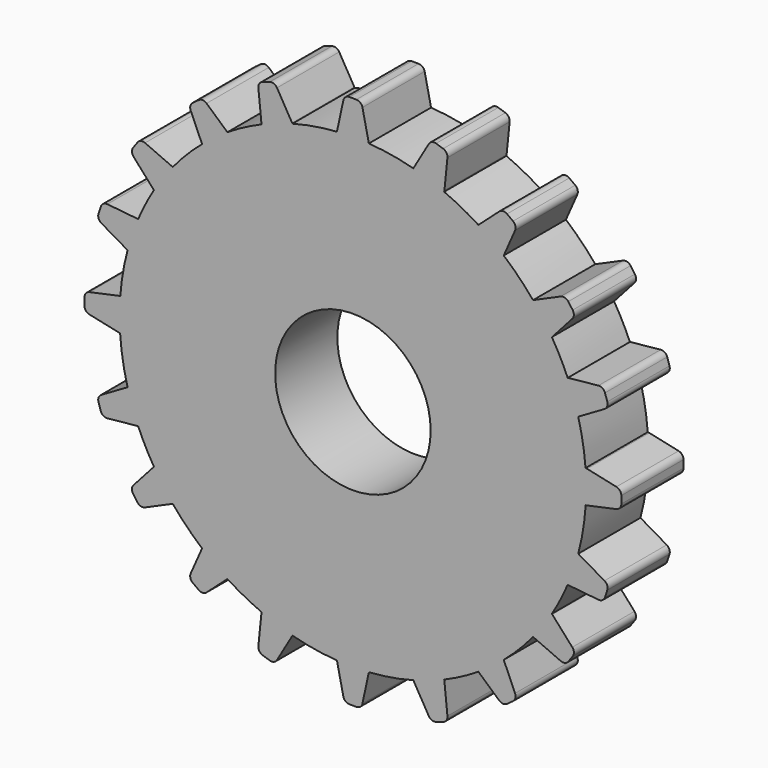
from build123d import *

# Parameters (mm, degrees)
F0_R     = 19.05
F0_R_2   = 6.35
F1_DEPTH = 6.35
F3_DEPTH = 6.35


with BuildPart() as f1:
    # F0 (on Front) → F1 (new body)
    with BuildSketch(Plane.XZ):
        Circle(F0_R)
        Circle(F0_R_2, mode=Mode.SUBTRACT)
    extrude(amount=F1_DEPTH)

    # F2 (on Front) → F3 (join)
    with BuildSketch(Plane.XZ):
        with BuildLine():
            ThreePointArc((-11.949772, 17.579327), (-12.262668, 17.707972), (-12.586962, 17.611603))
            Line((-12.586962, 17.611603), (-13.079612, 17.253673))
            ThreePointArc((-13.079612, 17.253673), (-13.271476, 16.975031), (-13.245818, 16.637695))
            Line((-13.245818, 16.637695), (-12.257192, 14.396131))
            ThreePointArc((-12.257192, 14.396131), (-11.92473, 14.110669), (-11.493796, 14.190148))
            Line((-11.493796, 14.190148), (-10.163421, 15.156722))
            ThreePointArc((-10.163421, 15.156722), (-9.954666, 15.542004), (-10.12342, 15.946407))
            Line((-10.12342, 15.946407), (-11.949772, 17.579327))
        make_face()
        with BuildLine():
            ThreePointArc((-7.372083, 20.605501), (-7.640662, 20.399786), (-7.720502, 20.071032))
            Line((-7.720502, 20.071032), (-7.472945, 17.633676))
            ThreePointArc((-7.472945, 17.633676), (-7.244967, 17.259448), (-6.810564, 17.201871))
            Line((-6.810564, 17.201871), (-5.246614, 17.71003))
            ThreePointArc((-5.246614, 17.71003), (-4.929018, 18.011946), (-4.964545, 18.448704))
            Line((-4.964545, 18.448704), (-6.196909, 20.566077))
            ThreePointArc((-6.196909, 20.566077), (-6.454738, 20.785116), (-6.792939, 20.793676))
            Line((-6.792939, 20.793676), (-7.372083, 20.605501))
        make_face()
        with BuildLine():
            ThreePointArc((0.779594, 21.429137), (0.602072, 21.717129), (0.283068, 21.82978))
            Line((0.283068, 21.82978), (-0.283068, 21.82978))
            ThreePointArc((-0.283068, 21.82978), (-0.602072, 21.717129), (-0.779594, 21.429137))
            Line((-0.779594, 21.429137), (-1.297338, 19.034574))
            ThreePointArc((-1.297338, 19.034574), (-1.196161, 18.608214), (-0.800812, 18.419217))
            Line((-0.800812, 18.419217), (0.800812, 18.419217))
            ThreePointArc((0.800812, 18.419217), (1.196161, 18.608214), (1.297338, 19.034574))
            Line((1.297338, 19.034574), (0.779594, 21.429137))
        make_face()
        with BuildLine():
            Line((7.372083, 20.605501), (6.792939, 20.793676))
            ThreePointArc((6.792939, 20.793676), (6.454738, 20.785116), (6.196909, 20.566077))
            Line((6.196909, 20.566077), (4.964545, 18.448704))
            ThreePointArc((4.964545, 18.448704), (4.929018, 18.011946), (5.246614, 17.71003))
            Line((5.246614, 17.71003), (6.810564, 17.201871))
            ThreePointArc((6.810564, 17.201871), (7.244967, 17.259448), (7.472945, 17.633676))
            Line((7.472945, 17.633676), (7.720502, 20.071032))
            ThreePointArc((7.720502, 20.071032), (7.640662, 20.399786), (7.372083, 20.605501))
        make_face()
        with BuildLine():
            Line((12.257192, 14.396131), (13.245818, 16.637695))
            ThreePointArc((13.245818, 16.637695), (13.271476, 16.975031), (13.079612, 17.253673))
            Line((13.079612, 17.253673), (12.586962, 17.611603))
            ThreePointArc((12.586962, 17.611603), (12.262668, 17.707972), (11.949772, 17.579327))
            Line((11.949772, 17.579327), (10.12342, 15.946407))
            ThreePointArc((10.12342, 15.946407), (9.954666, 15.542004), (10.163421, 15.156722))
            Line((10.163421, 15.156722), (11.493796, 14.190148))
            ThreePointArc((11.493796, 14.190148), (11.92473, 14.110669), (12.257192, 14.396131))
        make_face()
        with BuildLine():
            Line((17.948489, 12.444731), (17.590559, 12.93738))
            ThreePointArc((17.590559, 12.93738), (17.311917, 13.129245), (16.974581, 13.103587))
            Line((16.974581, 13.103587), (14.733017, 12.114961))
            ThreePointArc((14.733017, 12.114961), (14.447555, 11.782498), (14.527034, 11.351565))
            Line((14.527034, 11.351565), (15.493608, 10.021189))
            ThreePointArc((15.493608, 10.021189), (15.87889, 9.812435), (16.283293, 9.981189))
            Line((16.283293, 9.981189), (17.916213, 11.807541))
            ThreePointArc((17.916213, 11.807541), (18.044858, 12.120437), (17.948489, 12.444731))
        make_face()
        with BuildLine():
            Line((20.774498, 6.770147), (20.586323, 7.349291))
            ThreePointArc((20.586323, 7.349291), (20.380608, 7.61787), (20.051854, 7.69771))
            Line((20.051854, 7.69771), (17.614498, 7.450153))
            ThreePointArc((17.614498, 7.450153), (17.24027, 7.222175), (17.182694, 6.787773))
            Line((17.182694, 6.787773), (17.690852, 5.223822))
            ThreePointArc((17.690852, 5.223822), (17.992768, 4.906226), (18.429526, 4.941753))
            Line((18.429526, 4.941753), (20.5469, 6.174117))
            ThreePointArc((20.5469, 6.174117), (20.765938, 6.431946), (20.774498, 6.770147))
        make_face()
        with BuildLine():
            Line((21.918409, -0.208723), (21.918409, 0.400225))
            ThreePointArc((21.918409, 0.400225), (21.805757, 0.719229), (21.517766, 0.896751))
            Line((21.517766, 0.896751), (19.123203, 1.414495))
            ThreePointArc((19.123203, 1.414495), (18.696842, 1.313318), (18.507846, 0.917969))
            Line((18.507846, 0.917969), (18.507846, -0.726466))
            ThreePointArc((18.507846, -0.726466), (18.696842, -1.121815), (19.123203, -1.222993))
            Line((19.123203, -1.222993), (21.517766, -0.705249))
            ThreePointArc((21.517766, -0.705249), (21.805757, -0.527726), (21.918409, -0.208723))
        make_face()
        with BuildLine():
            ThreePointArc((20.774498, -6.770147), (20.765938, -6.431946), (20.5469, -6.174117))
            Line((20.5469, -6.174117), (18.429526, -4.941753))
            ThreePointArc((18.429526, -4.941753), (17.992768, -4.906226), (17.690852, -5.223822))
            Line((17.690852, -5.223822), (17.182694, -6.787773))
            ThreePointArc((17.182694, -6.787773), (17.24027, -7.222175), (17.614498, -7.450153))
            Line((17.614498, -7.450153), (20.051854, -7.69771))
            ThreePointArc((20.051854, -7.69771), (20.380608, -7.61787), (20.586323, -7.349291))
            Line((20.586323, -7.349291), (20.774498, -6.770147))
        make_face()
        with BuildLine():
            ThreePointArc((16.974581, -13.103587), (17.311917, -13.129245), (17.590559, -12.93738))
            Line((17.590559, -12.93738), (17.948489, -12.444731))
            ThreePointArc((17.948489, -12.444731), (18.044858, -12.120437), (17.916213, -11.807541))
            Line((17.916213, -11.807541), (16.283293, -9.981189))
            ThreePointArc((16.283293, -9.981189), (15.87889, -9.812435), (15.493608, -10.021189))
            Line((15.493608, -10.021189), (14.527034, -11.351565))
            ThreePointArc((14.527034, -11.351565), (14.447555, -11.782498), (14.733017, -12.114961))
            Line((14.733017, -12.114961), (16.974581, -13.103587))
        make_face()
        with BuildLine():
            ThreePointArc((11.949772, -17.579327), (12.262668, -17.707972), (12.586962, -17.611603))
            Line((12.586962, -17.611603), (13.079612, -17.253673))
            ThreePointArc((13.079612, -17.253673), (13.271476, -16.975031), (13.245818, -16.637695))
            Line((13.245818, -16.637695), (12.257192, -14.396131))
            ThreePointArc((12.257192, -14.396131), (11.92473, -14.110669), (11.493796, -14.190148))
            Line((11.493796, -14.190148), (10.163421, -15.156722))
            ThreePointArc((10.163421, -15.156722), (9.954666, -15.542004), (10.12342, -15.946407))
            Line((10.12342, -15.946407), (11.949772, -17.579327))
        make_face()
        with BuildLine():
            ThreePointArc((6.196909, -20.566077), (6.454738, -20.785116), (6.792939, -20.793676))
            Line((6.792939, -20.793676), (7.372083, -20.605501))
            ThreePointArc((7.372083, -20.605501), (7.640662, -20.399786), (7.720502, -20.071032))
            Line((7.720502, -20.071032), (7.472945, -17.633676))
            ThreePointArc((7.472945, -17.633676), (7.244967, -17.259448), (6.810564, -17.201871))
            Line((6.810564, -17.201871), (5.246614, -17.71003))
            ThreePointArc((5.246614, -17.71003), (4.929018, -18.011946), (4.964545, -18.448704))
            Line((4.964545, -18.448704), (6.196909, -20.566077))
        make_face()
        with BuildLine():
            ThreePointArc((-0.779594, -21.429137), (-0.602072, -21.717129), (-0.283068, -21.82978))
            Line((-0.283068, -21.82978), (0.283068, -21.82978))
            ThreePointArc((0.283068, -21.82978), (0.602072, -21.717129), (0.779594, -21.429137))
            Line((0.779594, -21.429137), (1.297338, -19.034574))
            ThreePointArc((1.297338, -19.034574), (1.196161, -18.608214), (0.800812, -18.419217))
            Line((0.800812, -18.419217), (-0.800812, -18.419217))
            ThreePointArc((-0.800812, -18.419217), (-1.196161, -18.608214), (-1.297338, -19.034574))
            Line((-1.297338, -19.034574), (-0.779594, -21.429137))
        make_face()
        with BuildLine():
            Line((-7.372083, -20.605501), (-6.792939, -20.793676))
            ThreePointArc((-6.792939, -20.793676), (-6.454738, -20.785116), (-6.196909, -20.566077))
            Line((-6.196909, -20.566077), (-4.964545, -18.448704))
            ThreePointArc((-4.964545, -18.448704), (-4.929018, -18.011946), (-5.246614, -17.71003))
            Line((-5.246614, -17.71003), (-6.810564, -17.201871))
            ThreePointArc((-6.810564, -17.201871), (-7.244967, -17.259448), (-7.472945, -17.633676))
            Line((-7.472945, -17.633676), (-7.720502, -20.071032))
            ThreePointArc((-7.720502, -20.071032), (-7.640662, -20.399786), (-7.372083, -20.605501))
        make_face()
        with BuildLine():
            Line((-13.079612, -17.253673), (-12.586962, -17.611603))
            ThreePointArc((-12.586962, -17.611603), (-12.262668, -17.707972), (-11.949772, -17.579327))
            Line((-11.949772, -17.579327), (-10.12342, -15.946407))
            ThreePointArc((-10.12342, -15.946407), (-9.954666, -15.542004), (-10.163421, -15.156722))
            Line((-10.163421, -15.156722), (-11.493796, -14.190148))
            ThreePointArc((-11.493796, -14.190148), (-11.92473, -14.110669), (-12.257192, -14.396131))
            Line((-12.257192, -14.396131), (-13.245818, -16.637695))
            ThreePointArc((-13.245818, -16.637695), (-13.271476, -16.975031), (-13.079612, -17.253673))
        make_face()
        with BuildLine():
            Line((-17.948489, -12.444731), (-17.590559, -12.93738))
            ThreePointArc((-17.590559, -12.93738), (-17.311917, -13.129245), (-16.974581, -13.103587))
            Line((-16.974581, -13.103587), (-14.733017, -12.114961))
            ThreePointArc((-14.733017, -12.114961), (-14.447555, -11.782498), (-14.527034, -11.351565))
            Line((-14.527034, -11.351565), (-15.493608, -10.021189))
            ThreePointArc((-15.493608, -10.021189), (-15.87889, -9.812435), (-16.283293, -9.981189))
            Line((-16.283293, -9.981189), (-17.916213, -11.807541))
            ThreePointArc((-17.916213, -11.807541), (-18.044858, -12.120437), (-17.948489, -12.444731))
        make_face()
        with BuildLine():
            Line((-18.429526, -4.941753), (-20.5469, -6.174117))
            ThreePointArc((-20.5469, -6.174117), (-20.765938, -6.431946), (-20.774498, -6.770147))
            Line((-20.774498, -6.770147), (-20.586323, -7.349291))
            ThreePointArc((-20.586323, -7.349291), (-20.380608, -7.61787), (-20.051854, -7.69771))
            Line((-20.051854, -7.69771), (-17.614498, -7.450153))
            ThreePointArc((-17.614498, -7.450153), (-17.24027, -7.222175), (-17.182694, -6.787773))
            Line((-17.182694, -6.787773), (-17.690852, -5.223822))
            ThreePointArc((-17.690852, -5.223822), (-17.992768, -4.906226), (-18.429526, -4.941753))
        make_face()
        with BuildLine():
            ThreePointArc((-21.918409, -0.208723), (-21.805757, -0.527726), (-21.517766, -0.705249))
            Line((-21.517766, -0.705249), (-19.123203, -1.222993))
            ThreePointArc((-19.123203, -1.222993), (-18.696842, -1.121815), (-18.507846, -0.726466))
            Line((-18.507846, -0.726466), (-18.507846, 0.917969))
            ThreePointArc((-18.507846, 0.917969), (-18.696842, 1.313318), (-19.123203, 1.414495))
            Line((-19.123203, 1.414495), (-21.517766, 0.896751))
            ThreePointArc((-21.517766, 0.896751), (-21.805757, 0.719229), (-21.918409, 0.400225))
            Line((-21.918409, 0.400225), (-21.918409, -0.208723))
        make_face()
        with BuildLine():
            ThreePointArc((-20.774498, 6.770147), (-20.765938, 6.431946), (-20.5469, 6.174117))
            Line((-20.5469, 6.174117), (-18.429526, 4.941753))
            ThreePointArc((-18.429526, 4.941753), (-17.992768, 4.906226), (-17.690852, 5.223822))
            Line((-17.690852, 5.223822), (-17.182694, 6.787773))
            ThreePointArc((-17.182694, 6.787773), (-17.24027, 7.222175), (-17.614498, 7.450153))
            Line((-17.614498, 7.450153), (-20.051854, 7.69771))
            ThreePointArc((-20.051854, 7.69771), (-20.380608, 7.61787), (-20.586323, 7.349291))
            Line((-20.586323, 7.349291), (-20.774498, 6.770147))
        make_face()
        with BuildLine():
            ThreePointArc((-16.283293, 9.981189), (-15.87889, 9.812435), (-15.493608, 10.021189))
            Line((-15.493608, 10.021189), (-14.527034, 11.351565))
            ThreePointArc((-14.527034, 11.351565), (-14.447555, 11.782498), (-14.733017, 12.114961))
            Line((-14.733017, 12.114961), (-16.974581, 13.103587))
            ThreePointArc((-16.974581, 13.103587), (-17.311917, 13.129245), (-17.590559, 12.93738))
            Line((-17.590559, 12.93738), (-17.948489, 12.444731))
            ThreePointArc((-17.948489, 12.444731), (-18.044858, 12.120437), (-17.916213, 11.807541))
            Line((-17.916213, 11.807541), (-16.283293, 9.981189))
        make_face()
    extrude(amount=F3_DEPTH)


solid = f1.part
